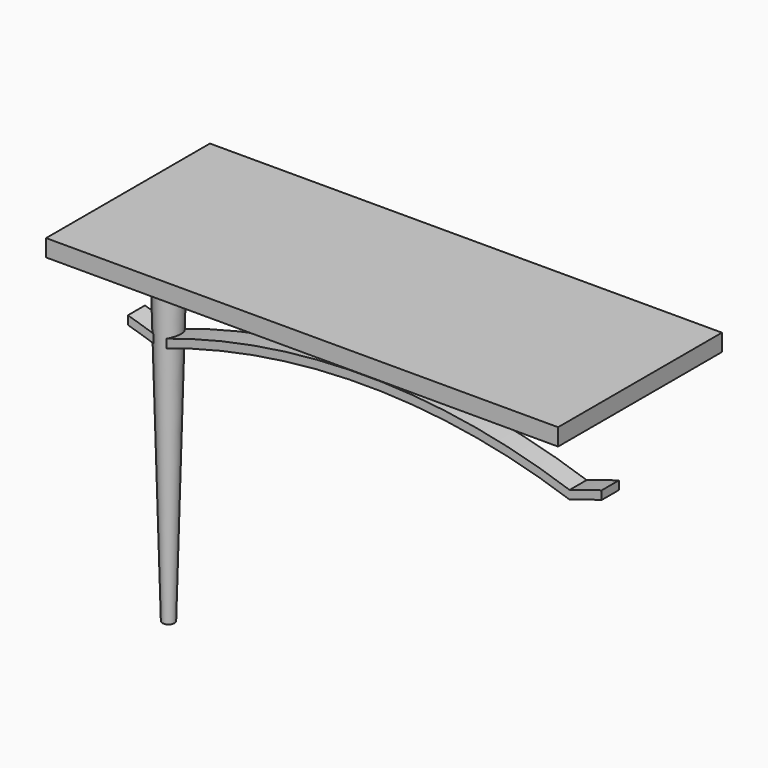
from build123d import *

# Parameters (mm, degrees)
F0_W     = 1524
F0_H     = 609.6
F1_DEPTH = 50.8
F3_DEPTH = 63.5
F4_R     = 44.45
F5_DEPTH = 1016
F5_TAPER = 1.5
F6_R     = 12.7
F7_DEPTH = 25.4


with BuildPart() as f1:
    # F0 (on Top) → F1 (new body)
    with BuildSketch(Plane.XY):
        Rectangle(F0_W, F0_H)
    extrude(amount=F1_DEPTH)


with BuildPart() as f3:
    # F2 (on Front) → F3 (new body)
    with BuildSketch(Plane.XZ):
        with BuildLine():
            ThreePointArc((-615.9864588737, -288.6620163918), (-6.3864588737, -186.6584198724), (603.2135411263, -288.6620163918))
            ThreePointArc((603.2135411263, -288.6620163918), (650.8029751461, -272.9860498745), (698.7947821617, -258.5889454448))
            Line((698.7947821617, -258.5889454448), (698.7947821617, -233.1889454448))
            ThreePointArc((698.7947821617, -233.1889454448), (650.8029751461, -247.5860498745), (603.2135411263, -263.2620163918))
            ThreePointArc((603.2135411263, -263.2620163918), (-6.3864588737, -161.2584198724), (-615.9864588737, -263.2620163918))
            ThreePointArc((-615.9864588737, -263.2620163918), (-663.5758928936, -247.5860498745), (-711.5676999092, -233.1889454448))
            Line((-711.5676999092, -233.1889454448), (-711.5676999092, -258.5889454448))
            ThreePointArc((-711.5676999092, -258.5889454448), (-663.5758928936, -272.9860498745), (-615.9864588737, -288.6620163918))
        make_face()
    extrude(amount=F3_DEPTH)


with BuildPart() as f5:
    # F4 (on Top) → F5 (new body)
    with BuildSketch(Plane.XY):
        with Locations((-615.9864588737, -31.75)):
            Circle(F4_R)
    extrude(amount=-F5_DEPTH, taper=F5_TAPER)


with BuildPart() as f7:
    # F6 (on Top) → F7 (new body)
    with BuildSketch(Plane.XY):
        with Locations((-615.9864588737, -31.75)):
            Circle(F6_R)
    extrude(amount=F7_DEPTH)


solid = Compound([f1.part, f3.part, f5.part, f7.part])
